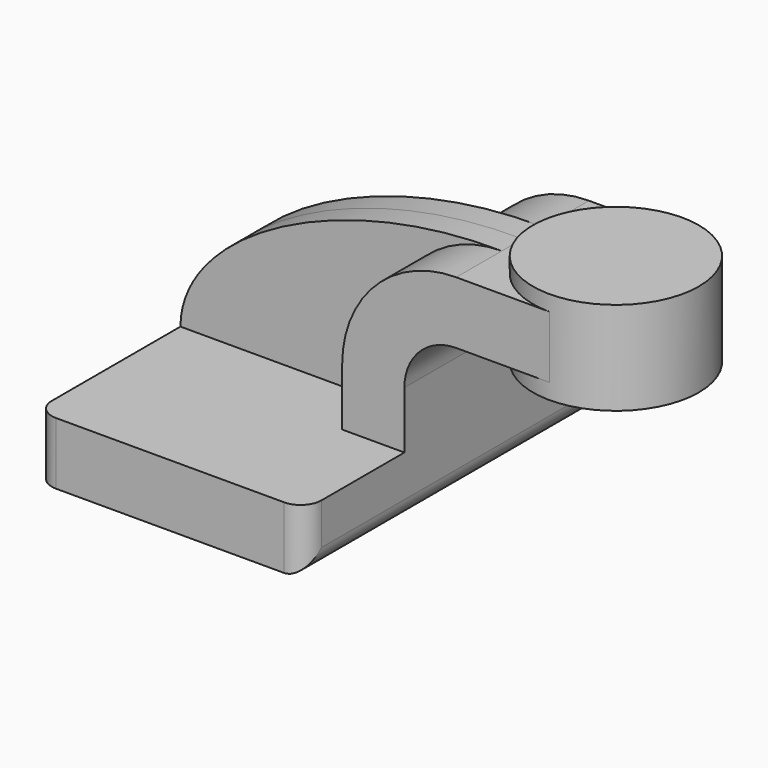
from build123d import *

# Parameters (mm, degrees)
F1_DEPTH = 63.5
F0_W     = 25.4
F0_H     = 19.05
F2_DEPTH = 25.4
F3_DEPTH = 7.9375
F5_R     = 6.35


with BuildPart() as f1:
    # F0 (on Front) → F1 (new body, symmetric)
    with BuildSketch(Plane.XZ):
        Polygon((-41.275, 9.525), (-41.275, -9.525), (41.275, -9.525), (41.275, 9.525), (22.225, 9.525), align=None)
    extrude(amount=F1_DEPTH, both=True)

    # F0 (on Front) → F2 (join, symmetric)
    with BuildSketch(Plane.XZ):
        with BuildLine():
            Line((22.225, 9.525), (41.275, 9.525))
            Line((41.275, 9.525), (41.275, 27.0002))
            ThreePointArc((41.275, 27.0002), (45.9246798487, 38.2255201513), (57.15, 42.8752))
            Line((57.15, 42.8752), (60.325, 42.8752))
            Line((60.325, 42.8752), (60.325, 61.9252))
            Line((60.325, 61.9252), (57.15, 61.9252))
            ThreePointArc((57.15, 61.9252), (32.4542956671, 51.6959043329), (22.225, 27.0002))
            Line((22.225, 27.0002), (22.225, 9.525))
        make_face()
        with Locations((73.025, 52.4002)):
            Rectangle(F0_W, F0_H)
    extrude(amount=F2_DEPTH, both=True)

    # F0 (on Front) → F3 (join, symmetric)
    with BuildSketch(Plane.XZ):
        with BuildLine():
            add(Edge.make_bspline(
                [(-41.275, 9.525), (-41.1149449646, 36.8104875088), (6.9761793129, 62.6372024417), (57.15, 61.9252)],
                knots=[0, 0, 0, 0, 111.5045361635, 111.5045361635, 111.5045361635, 111.5045361635], degree=3))
            Line((-41.275, 9.525), (22.225, 9.525))
            Line((22.225, 9.525), (22.225, 27.0002))
            ThreePointArc((22.225, 27.0002), (32.4542956671, 51.6959043329), (57.15, 61.9252))
        make_face()
    extrude(amount=F3_DEPTH, both=True)

    # F0 (on Front) → F4 (revolve)
    with BuildSketch(Plane.XZ):
        Polygon((85.725, 66.675), (85.725, 61.9252), (85.725, 42.8752), (85.725, 38.1), (111.125, 38.1), (111.125, 66.675), align=None)
    revolve(axis=Axis((85.725, 0, 52.3875), (0, 0, 1)))

    # F5
    f5_edges = [f1.edges().sort_by_distance(p)[0] for p in [
        (-41.275, -63.5, 0),
        (41.275, -63.5, 0),
        (41.275, 63.5, 0),
        (41.275, 0, -9.525),
        (-41.275, 63.5, 0),
    ]]
    fillet(f5_edges, radius=F5_R)


solid = f1.part
